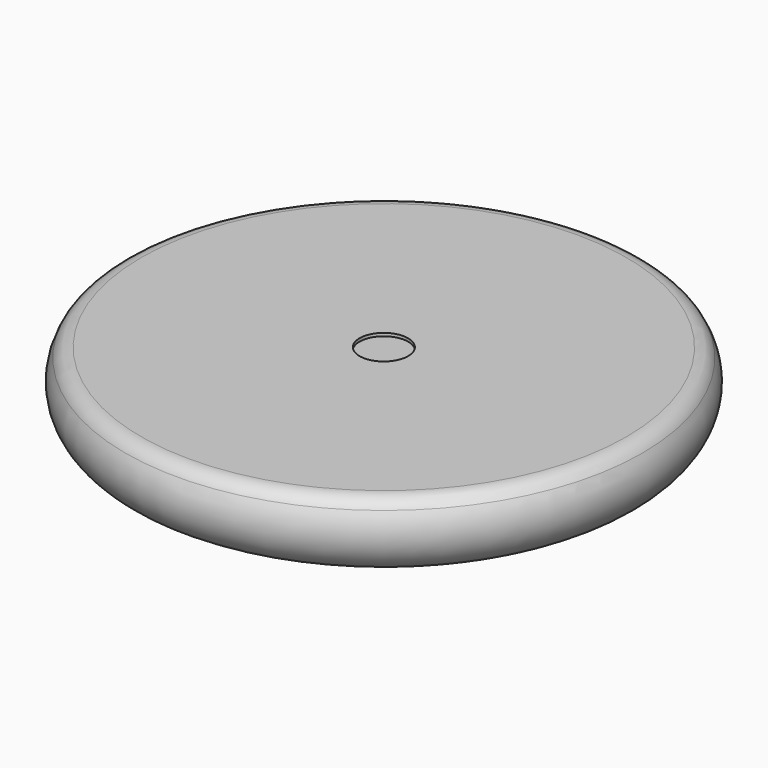
from build123d import *

# Parameters (mm, degrees)
F3_R     = 3.175
F4_DEPTH = 223.2499999922
F5_COUNT = 24
F6_R     = 25.4
F7_DEPTH = 3.175


with BuildPart() as f2:
    # F0 (on Front) → F2 (revolve)
    with BuildSketch(Plane.XZ):
        with BuildLine():
            Line((0, 3.175), (0, 0))
            Line((0, 0), (212.7249998922, 0))
            Line((212.7249998922, 0), (212.7249998922, -12.7))
            ThreePointArc((212.7249998922, -12.7), (218.3046165574, -26.1703842611), (231.7750012022, -31.75))
            ThreePointArc((231.7750012022, -31.75), (270.2842437356, -9.6314332857), (270.5823835352, 34.7769428009))
            ThreePointArc((270.5823835352, 34.7769428009), (263.5987431376, 41.854988003), (254, 44.45))
            Line((254, 44.45), (0, 44.45))
            Line((0, 44.45), (0, 41.275))
            Line((0, 41.275), (254, 41.275))
            ThreePointArc((254, 41.275), (261.9989522074, 39.1124902401), (267.8186524818, 33.2141198216))
            ThreePointArc((267.8186524818, 33.2141198216), (267.5417454374, -8.031643273), (231.7749990777, -28.575))
            ThreePointArc((231.7749990777, -28.575), (220.5496794529, -23.9253198634), (215.8999998922, -12.7))
            Line((215.8999998922, -12.7), (215.8999998922, 3.175))
            Line((215.8999998922, 3.175), (0, 3.175))
        make_face()
    revolve(axis=Axis((0, 0, 0), (0, 0, 1)))

    # F3 (on Front) → F4 (cut, up to face)
    with BuildSketch(Plane.XZ):
        with Locations((0, -22.225)):
            Circle(F3_R)
    f4 = extrude(amount=-F4_DEPTH, mode=Mode.SUBTRACT)

    # F5: F4 ×24 about axis
    f5_axis = Axis((0, 0, 12.8322909654), (0, 0, -1))
    for i in range(1, F5_COUNT):
        add(f4.rotate(f5_axis, i * 360 / F5_COUNT), mode=Mode.SUBTRACT)

    # F6 (on face) → F7 (cut)
    with BuildSketch(Plane.XY.offset(44.45)):
        Circle(F6_R)
    extrude(amount=-F7_DEPTH, mode=Mode.SUBTRACT)


solid = f2.part
